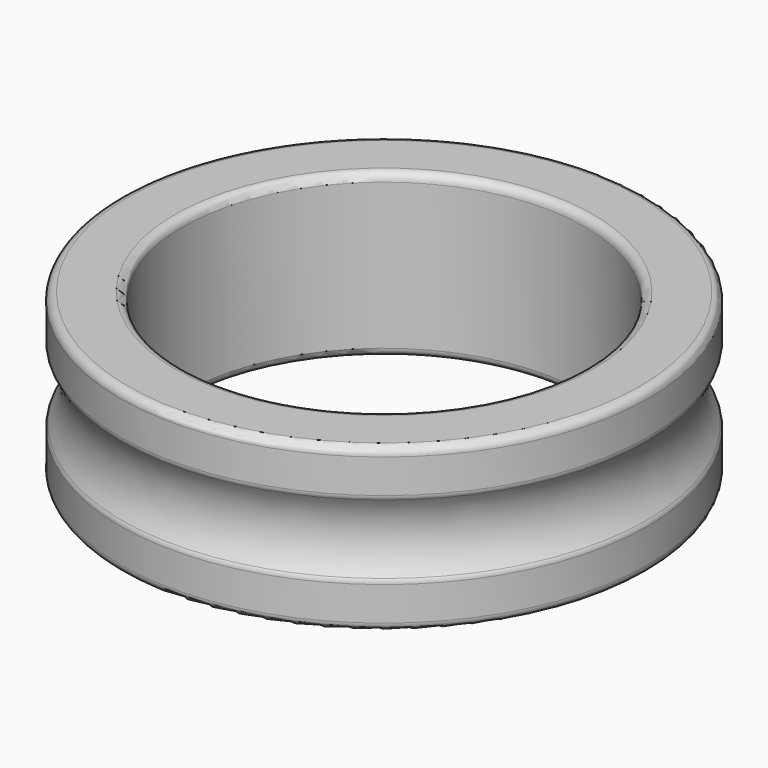
from build123d import *


with BuildPart() as f1:
    # F0 (on Front) → F1 (revolve)
    with BuildSketch(Plane.XZ):
        with BuildLine():
            Line((4.95, 3.8), (4.95, 0.2))
            ThreePointArc((4.95, 0.2), (5.008579, 0.058579), (5.15, 0))
            Line((5.15, 0), (6.3, 0))
            ThreePointArc((6.3, 0), (6.441421, 0.058579), (6.5, 0.2))
            Line((6.5, 0.2), (6.5, 1.035635))
            ThreePointArc((6.5, 1.035635), (6.490973, 1.095044), (6.464706, 1.14909))
            ThreePointArc((6.464706, 1.14909), (6.2, 2), (6.464706, 2.85091))
            ThreePointArc((6.464706, 2.85091), (6.490973, 2.904956), (6.5, 2.964365))
            Line((6.5, 2.964365), (6.5, 3.8))
            ThreePointArc((6.5, 3.8), (6.441421, 3.941421), (6.3, 4))
            Line((6.3, 4), (5.15, 4))
            ThreePointArc((5.15, 4), (5.008579, 3.941421), (4.95, 3.8))
        make_face()
    revolve(axis=Axis((0, 0, -3.624108), (0, 0, -1)))


solid = f1.part
